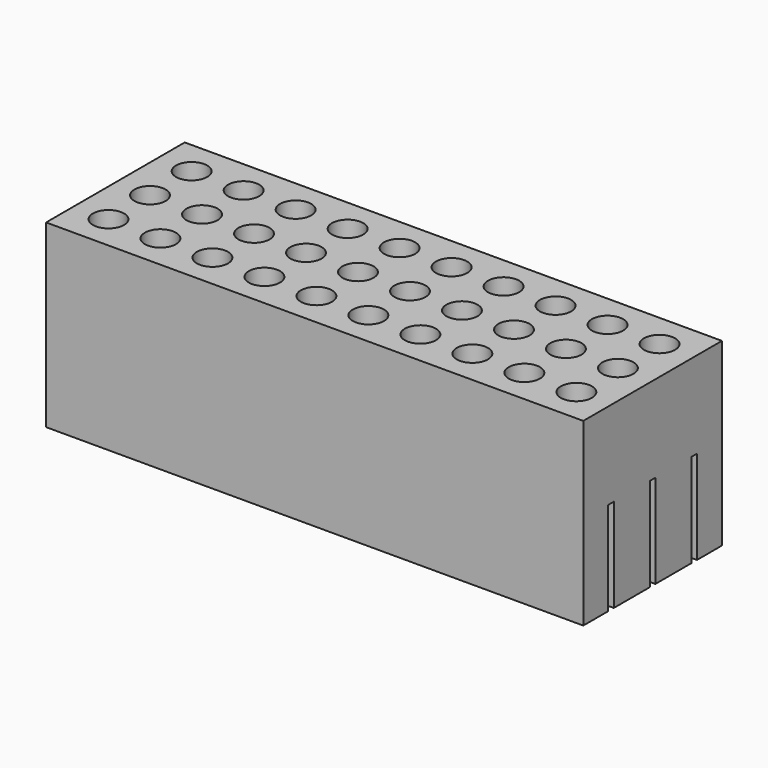
from build123d import *

# Parameters (mm, degrees)
F0_W     = 155
F0_H     = 9
F1_DEPTH = 27
F0_H_2   = 13
F2_R     = 4.5
F3_DEPTH = 25


with BuildPart() as f1:
    # F0 (on Top) → F1 (new body)
    with BuildSketch(Plane.XY):
        with Locations((0, 20.5)):
            Rectangle(F0_W, F0_H)
    extrude(amount=F1_DEPTH)



with BuildPart() as f1b:
    # F0 (on Top) → F1, piece 2 (new body)
    with BuildSketch(Plane.XY):
        with Locations((0, -20.5)):
            Rectangle(F0_W, F0_H)
    extrude(amount=F1_DEPTH)


with BuildPart() as f1c:
    # F0 (on Top) → F1, piece 3 (new body)
    with BuildSketch(Plane.XY):
        with Locations((0, 7.5)):
            Rectangle(F0_W, F0_H_2)
    extrude(amount=F1_DEPTH)


with BuildPart() as f1d:
    # F0 (on Top) → F1, piece 4 (new body)
    with BuildSketch(Plane.XY):
        with Locations((0, -7.5)):
            Rectangle(F0_W, F0_H_2)
    extrude(amount=F1_DEPTH)


with BuildPart() as f1_1:
    add(f1.part)

    add(f1b.part)  # F3 merges F1b

    add(f1c.part)  # F3 merges F1c

    add(f1d.part)  # F3 merges F1d
    # F2 (on face) → F3 (join)
    with BuildSketch(Plane.XY.offset(27)):
        Polygon((-77.5, -16), (-77.5, -25), (77.5, -25), (77.5, -16), (77.5, -14), (77.5, -1), (77.5, 1), (77.5, 14), (77.5, 16), (77.5, 25), (-77.5, 25), (-77.5, 16), (-77.5, 14), (-77.5, 1), (-77.5, -1), (-77.5, -14), align=None)
        with Locations((-67.5, -15)):
            Circle(F2_R, mode=Mode.SUBTRACT)
        with Locations((-52.5, -15)):
            Circle(F2_R, mode=Mode.SUBTRACT)
        with Locations((-37.5, -15)):
            Circle(F2_R, mode=Mode.SUBTRACT)
        with Locations((-22.5, -15)):
            Circle(F2_R, mode=Mode.SUBTRACT)
        with Locations((-7.5, -15)):
            Circle(F2_R, mode=Mode.SUBTRACT)
        with Locations((7.5, -15)):
            Circle(F2_R, mode=Mode.SUBTRACT)
        with Locations((22.5, -15)):
            Circle(F2_R, mode=Mode.SUBTRACT)
        with Locations((37.5, -15)):
            Circle(F2_R, mode=Mode.SUBTRACT)
        with Locations((52.5, -15)):
            Circle(F2_R, mode=Mode.SUBTRACT)
        with Locations((67.5, -15)):
            Circle(F2_R, mode=Mode.SUBTRACT)
        with Locations((-67.5, 0)):
            Circle(F2_R, mode=Mode.SUBTRACT)
        with Locations((-52.5, 0)):
            Circle(F2_R, mode=Mode.SUBTRACT)
        with Locations((-37.5, 0)):
            Circle(F2_R, mode=Mode.SUBTRACT)
        with Locations((-22.5, 0)):
            Circle(F2_R, mode=Mode.SUBTRACT)
        with Locations((-7.5, 0)):
            Circle(F2_R, mode=Mode.SUBTRACT)
        with Locations((-67.5, 15)):
            Circle(F2_R, mode=Mode.SUBTRACT)
        with Locations((-52.5, 15)):
            Circle(F2_R, mode=Mode.SUBTRACT)
        with Locations((-37.5, 15)):
            Circle(F2_R, mode=Mode.SUBTRACT)
        with Locations((-22.5, 15)):
            Circle(F2_R, mode=Mode.SUBTRACT)
        with Locations((-7.5, 15)):
            Circle(F2_R, mode=Mode.SUBTRACT)
        with Locations((7.5, 0)):
            Circle(F2_R, mode=Mode.SUBTRACT)
        with Locations((22.5, 0)):
            Circle(F2_R, mode=Mode.SUBTRACT)
        with Locations((37.5, 0)):
            Circle(F2_R, mode=Mode.SUBTRACT)
        with Locations((52.5, 0)):
            Circle(F2_R, mode=Mode.SUBTRACT)
        with Locations((67.5, 0)):
            Circle(F2_R, mode=Mode.SUBTRACT)
        with Locations((7.5, 15)):
            Circle(F2_R, mode=Mode.SUBTRACT)
        with Locations((22.5, 15)):
            Circle(F2_R, mode=Mode.SUBTRACT)
        with Locations((37.5, 15)):
            Circle(F2_R, mode=Mode.SUBTRACT)
        with Locations((52.5, 15)):
            Circle(F2_R, mode=Mode.SUBTRACT)
        with Locations((67.5, 15)):
            Circle(F2_R, mode=Mode.SUBTRACT)
    extrude(amount=F3_DEPTH)


solid = f1_1.part
